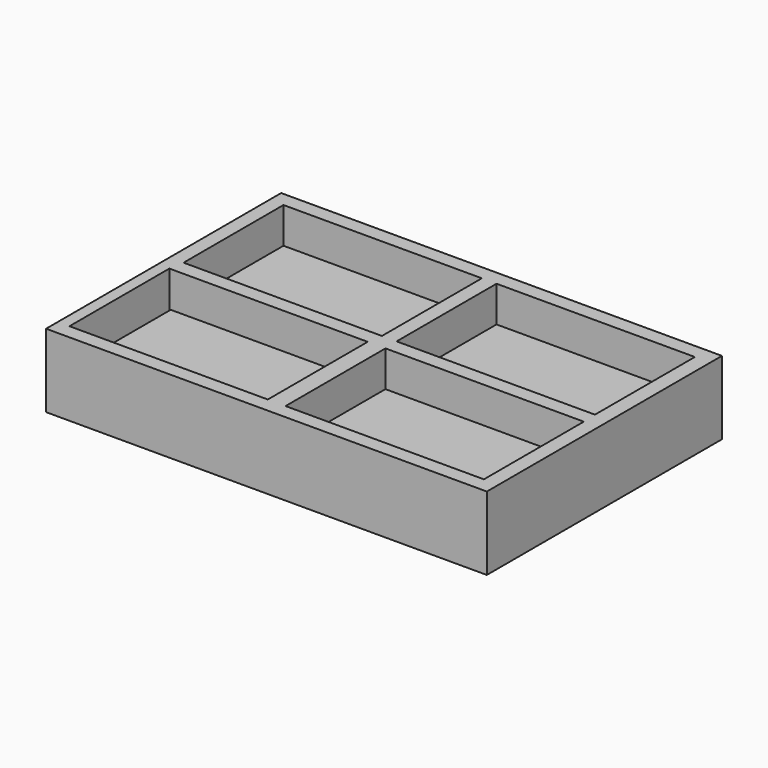
from build123d import *

# Parameters (mm, degrees)
F0_W     = 1500
F0_H     = 1000
F0_W_2   = 675
F0_H_2   = 425
F1_DEPTH = 125
F2_W     = 675
F2_H     = 425
F3_DEPTH = 3


with BuildPart() as f1:
    # F0 (on Top) → F1 (new body, symmetric)
    with BuildSketch(Plane.XY):
        Rectangle(F0_W, F0_H)
        with Locations((-372.967375, -237.5)):
            Rectangle(F0_W_2, F0_H_2, mode=Mode.SUBTRACT)
        with Locations((362.5, -237.5)):
            Rectangle(F0_W_2, F0_H_2, mode=Mode.SUBTRACT)
        with Locations((-364.561057, 237.5)):
            Rectangle(F0_W_2, F0_H_2, mode=Mode.SUBTRACT)
        with Locations((360.438943, 237.5)):
            Rectangle(F0_W_2, F0_H_2, mode=Mode.SUBTRACT)
    extrude(amount=F1_DEPTH, both=True)

    # F2 (on Top) → F3 (join)
    with BuildSketch(Plane.XY):
        with Locations((-368.367167, 242.65543)):
            Rectangle(F2_W, F2_H)
        with Locations((-368.367167, -233.154571)):
            Rectangle(F2_W, F2_H)
        with Locations((359.504882, 242.65543)):
            Rectangle(F2_W, F2_H)
        with Locations((359.504882, -237.751758)):
            Rectangle(F2_W, F2_H)
    extrude(amount=F3_DEPTH)


solid = f1.part
